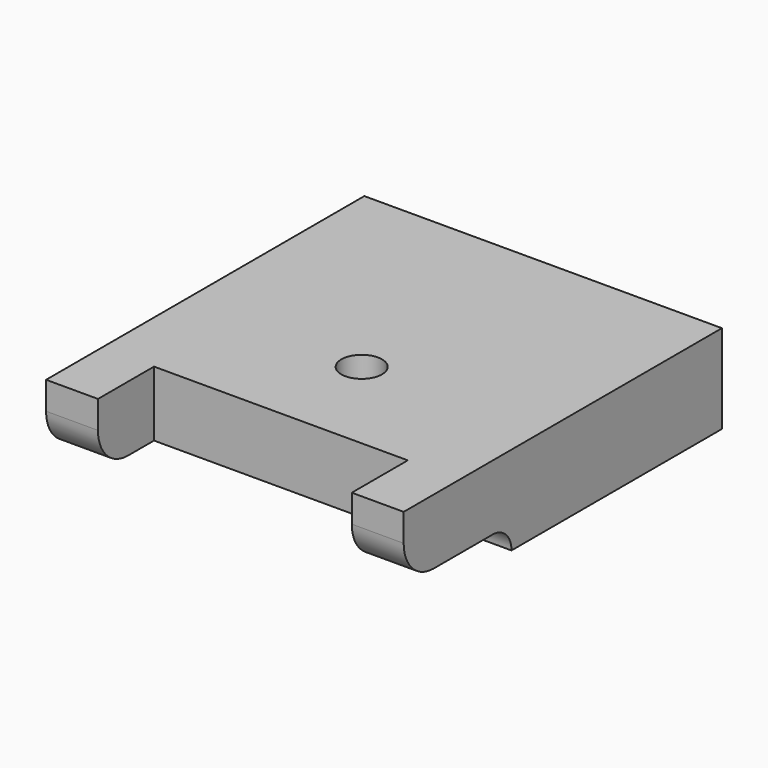
from build123d import *

# Parameters (mm, degrees)
SKETCH001_W     = 43.9111261831
SKETCH001_H     = 56
EXTRUDE_DEPTH   = 10.9
POCKET001_DEPTH = 43.9121261831
SKETCH003_W     = 31.1652
SKETCH003_H     = 8.6
POCKET002_DEPTH = 10.901
SKETCH006_R     = 2.5
POCKET004_DEPTH = 10.9


with BuildPart() as part:
    # Sketch001 (on Face7 of Pocket) → Extrude (new body)
    with BuildSketch(Plane(origin=(66.9555630915, 66.3037746961, 29.39946064), x_dir=(-1, 0, 0), z_dir=(0, 0, 1))):
        with Locations((17, 28)):
            Rectangle(SKETCH001_W, SKETCH001_H)
    extrude(amount=EXTRUDE_DEPTH)

    # Sketch002 (on Face4 of Extrude) → Pocket001 (cut, through all)
    with BuildSketch(Plane.YZ.offset(71.9111261831)):
        with BuildLine():
            Line((10.3037746961, 29.39946064), (34.0037746961, 29.39946064))
            ThreePointArc((34.0037746961, 29.39946064), (33.1543764894, 31.4500781776), (31.1037524304, 32.29946064))
            Line((22.0537746961, 32.29946064), (31.1037524304, 32.29946064))
            ThreePointArc((17.4537746961, 36.8994600326), (18.8010836591, 33.6467691735), (22.0537746961, 32.29946064))
            Line((17.4537746961, 36.8994600326), (17.4537746961, 40.29946064))
            Line((10.3037746961, 40.29946064), (17.4537746961, 40.29946064))
            Line((10.3037746961, 40.29946064), (10.3037746961, 29.39946064))
        make_face()
    extrude(amount=-POCKET001_DEPTH, mode=Mode.SUBTRACT)

    # Sketch003 (on Face7 of Pocket001) → Pocket002 (cut, through all)
    with BuildSketch(Plane.XY.offset(40.29946064)):
        with Locations((49.9555387865, 21.7537746961)):
            Rectangle(SKETCH003_W, SKETCH003_H)
    extrude(amount=-POCKET002_DEPTH, mode=Mode.SUBTRACT)

    # Sketch006 (on Face7 of Pocket002) → Pocket004 (cut)
    with BuildSketch(Plane.XY.offset(40.29946064)):
        with Locations((49.9555630915, 38.4537746961)):
            Circle(SKETCH006_R)
    extrude(amount=-POCKET004_DEPTH, mode=Mode.SUBTRACT)


solid = part.part
